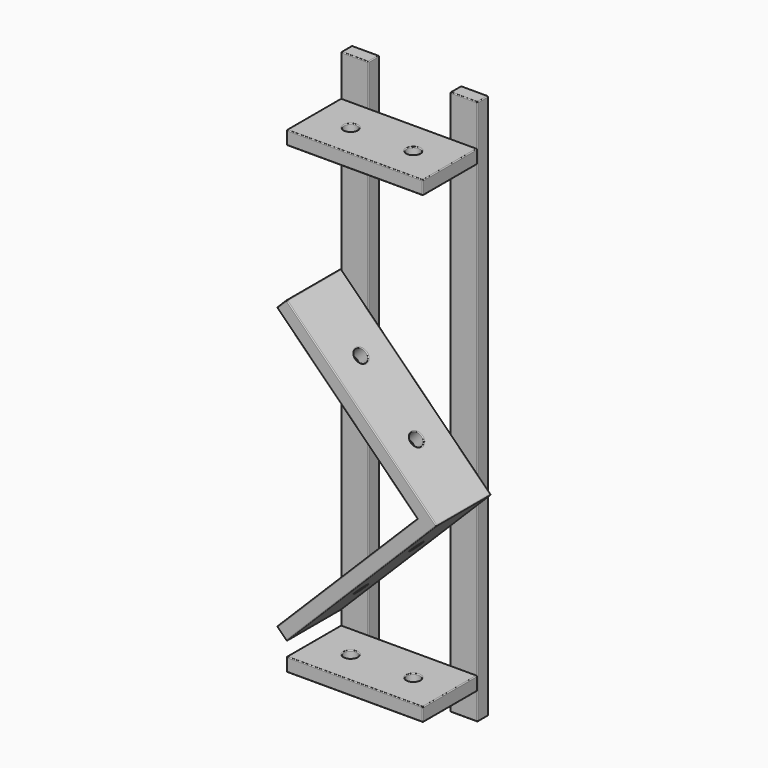
from build123d import *

# Parameters (mm, degrees)
F0_W      = 100
F0_H      = 50
F1_DEPTH  = 2000
F2_W      = 500
F2_H      = 50
F3_DEPTH  = 250
F4_R      = 25
F5_DEPTH  = 128
F6_R      = 25
F7_DEPTH  = 94
F8_R      = 25
F9_DEPTH  = 190
F10_R     = 25
F11_DEPTH = 154
F12_R     = 3
F12_2_R   = 3
F12_3_R   = 3


with BuildPart() as f1:
    # F0 (on Top) → F1 (new body)
    with BuildSketch(Plane.XY):
        with Locations((-200, 25)):
            Rectangle(F0_W, F0_H)
    extrude(amount=F1_DEPTH)

    # F12
    f12_edges = [f1.edges().sort_by_distance(p)[0] for p in [
        (-250, 0, 1000),
        (-150, 0, 1000),
        (-250, 50, 1000),
        (-150, 50, 1000),
        (-150, 25, 2000),
        (-200, 0, 2000),
        (-200, 50, 2000),
        (-250, 25, 2000),
        (-150, 25, 0),
        (-200, 0, 0),
        (-200, 50, 0),
        (-250, 25, 0),
    ]]
    fillet(f12_edges, radius=F12_R)


with BuildPart() as f1b:
    # F0 (on Top) → F1, piece 2 (new body)
    with BuildSketch(Plane.XY):
        with Locations((200, 25)):
            Rectangle(F0_W, F0_H)
    extrude(amount=F1_DEPTH)

    # F12#2
    f12_2_edges = [f1b.edges().sort_by_distance(p)[0] for p in [
        (250, 0, 1000),
        (150, 0, 1000),
        (250, 50, 1000),
        (150, 50, 1000),
        (200, 0, 2000),
        (200, 0, 0),
        (150, 25, 2000),
        (200, 50, 2000),
        (250, 25, 2000),
        (200, 50, 0),
        (250, 25, 0),
        (150, 25, 0),
    ]]
    fillet(f12_2_edges, radius=F12_2_R)


with BuildPart() as f3:
    # F2 (on face) → F3 (new body)
    with BuildSketch(Plane.XZ):
        with Locations((0, 1825)):
            Rectangle(F2_W, F2_H)
        with Locations((0, 125)):
            Rectangle(F2_W, F2_H)
        Polygon((-250, 200), (300, 750), (-250, 1300), (-285.3553390593, 1264.6446609407), (229.2893218813, 750), (-285.3553390593, 235.3553390593), align=None)
    extrude(amount=F3_DEPTH)

    # F4 (on face) → F5 (cut)
    with BuildSketch(Plane.XY.offset(1850)):
        with Locations((-115, -125)):
            Circle(F4_R)
        with Locations((115, -125)):
            Circle(F4_R)
    extrude(amount=-F5_DEPTH, mode=Mode.SUBTRACT)

    # F6 (on face) → F7 (cut)
    with BuildSketch(Plane(origin=(0, 0, 100), x_dir=(1, 0, 0), z_dir=(0, 0, -1))):
        with Locations((-115, 125)):
            Circle(F6_R)
        with Locations((115, 125)):
            Circle(F6_R)
    extrude(amount=-F7_DEPTH, mode=Mode.SUBTRACT)

    # F8 (on face) → F9 (cut)
    with BuildSketch(Plane(origin=(525, 0, 525), x_dir=(0, 1, 0), z_dir=(0.7071067812, 0, 0.7071067812))):
        with Locations((-125, 851.0155108391)):
            Circle(F8_R)
        with Locations((-125, 563.1980515339)):
            Circle(F8_R)
    extrude(amount=-F9_DEPTH, mode=Mode.SUBTRACT)

    # F10 (on face) → F11 (cut)
    with BuildSketch(Plane(origin=(-225, 0, 225), x_dir=(0.7071067812, 0, 0.7071067812), z_dir=(0.7071067812, 0, -0.7071067812))):
        with Locations((497.4621202459, 125)):
            Circle(F10_R)
        with Locations((209.6446609407, 125)):
            Circle(F10_R)
    extrude(amount=-F11_DEPTH, mode=Mode.SUBTRACT)

    # F12#3
    f12_3_edges = [f3.edges().sort_by_distance(p)[0] for p in [
        (90, -125, 1850),
        (-140, -125, 1850),
        (250, -125, 1800),
        (250, -125, 1850),
        (-250, -125, 1850),
        (0, -250, 1800),
        (0, -250, 1850),
        (0, 0, 1850),
        (-250, -125, 150),
        (-250, -125, 1300),
        (300, -125, 750),
        (-129.791847, -125, 390.918831),
        (-285.355339, -125, 235.355339),
        (25, -250, 475),
        (-28.033009, -250, 492.67767),
        (-28.033009, -250, 1007.32233),
        (25, -250, 1025),
        (-28.033009, 0, 492.67767),
        (25, 0, 1025),
        (-76.758839, -150, 1126.758839),
        (126.758839, -150, 923.241161),
        (-250, -125, 1800),
        (90, -125, 1800),
        (250, -250, 1825),
        (-250, -250, 1825),
        (0, 0, 1800),
        (250, 0, 1825),
        (-250, 0, 1825),
        (-140, -125, 100),
        (-250, -250, 125),
        (0, -250, 150),
        (-140, -125, 150),
        (0, 0, 100),
        (90, -125, 150),
        (0, -250, 100),
        (250, -125, 100),
        (250, -125, 150),
        (0, 0, 150),
        (-250, -125, 200),
        (-267.67767, -250, 1282.32233),
        (-267.67767, 0, 217.67767),
        (109.081169, -125, 559.081169),
        (-267.67767, -250, 217.67767),
        (229.289322, -125, 750),
        (-267.67767, 0, 1282.32233),
        (-28.033009, 0, 1007.32233),
        (25, 0, 475),
        (91.4035, -150, 887.885822),
        (73.72583, -125, 594.436508),
        (-140, -125, 1800),
        (90, -125, 100),
        (-250, -125, 100),
        (250, -250, 125),
        (-250, 0, 125),
        (250, 0, 125),
        (-285.355339, -125, 1264.644661),
        (-112.114178, -150, 1091.4035),
        (-94.436508, -125, 355.563492),
    ]]
    fillet(f12_3_edges, radius=F12_3_R)


solid = Compound([f1.part, f1b.part, f3.part])
